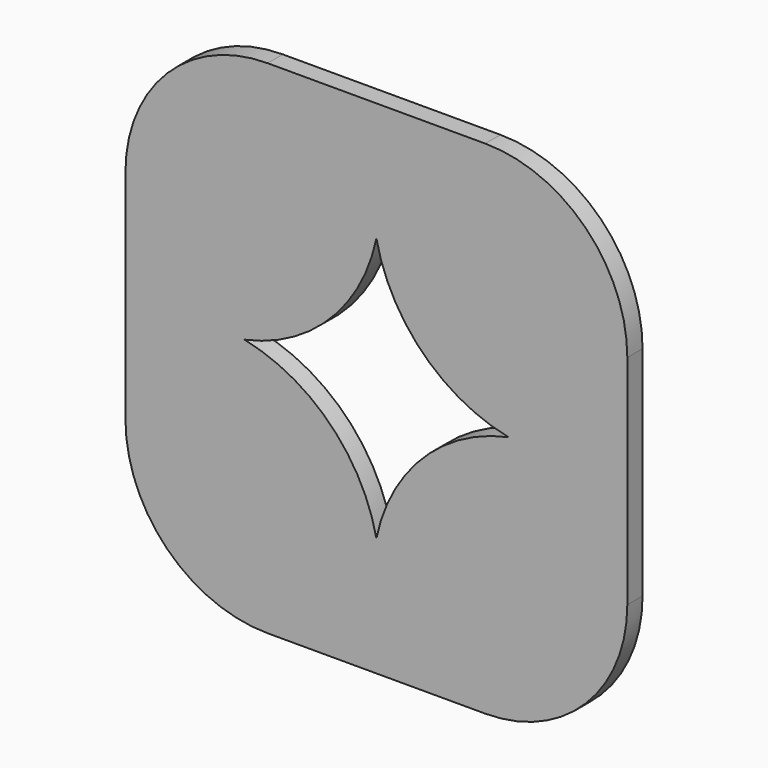
from build123d import *

# Parameters (mm, degrees)
F1_DEPTH = 0.67


with BuildPart() as f1:
    # F0 (on Front) → F1 (new body)
    with BuildSketch(Plane.XZ):
        with BuildLine():
            Line((3.83, 8.83), (-3.83, 8.83))
            ThreePointArc((-3.83, 8.83), (-7.365534, 7.365534), (-8.83, 3.83))
            Line((-8.83, 3.83), (-8.83, -3.83))
            ThreePointArc((-8.83, -3.83), (-7.365534, -7.365534), (-3.83, -8.83))
            Line((-3.83, -8.83), (3.83, -8.83))
            ThreePointArc((3.83, -8.83), (7.365534, -7.365534), (8.83, -3.83))
            Line((8.83, -3.83), (8.83, 3.83))
            ThreePointArc((8.83, 3.83), (7.365534, 7.365534), (3.83, 8.83))
        make_face()
        with BuildLine():
            ThreePointArc((4.643209, 0), (1.630041, -1.630041), (0, -4.643209))
            ThreePointArc((0, -4.643209), (-1.630041, -1.630041), (-4.643209, 0))
            ThreePointArc((-4.643209, 0), (-1.630041, 1.630041), (0, 4.643209))
            ThreePointArc((0, 4.643209), (1.630041, 1.630041), (4.643209, 0))
        make_face(mode=Mode.SUBTRACT)
    extrude(amount=F1_DEPTH)


solid = f1.part
